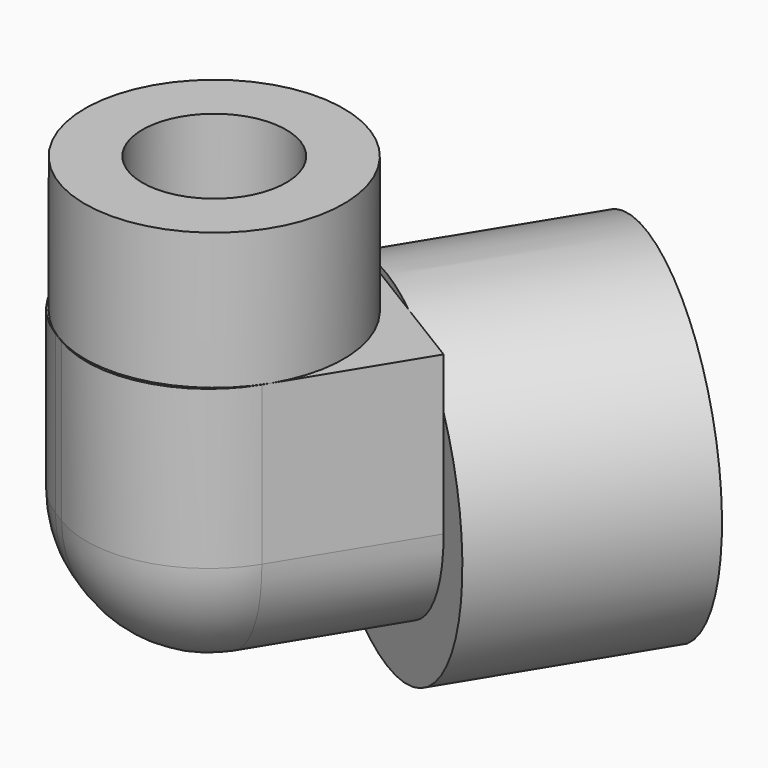
from build123d import *

# Parameters (mm, degrees)
CYLINDER021_R               = 5
CYLINDER021_DEPTH           = 25
CYLINDER022_R               = 5
CYLINDER022_DEPTH           = 15
CYLINDER020_R               = 9
CYLINDER020_DEPTH           = 9.5
BOX007_W                    = 19
BOX007_H                    = 18
BOX007_DEPTH                = 19.5
FILLET_R                    = 8.5
CYLINDER024_R               = 5
CYLINDER024_DEPTH           = 2.5
CYLINDER019_R               = 12
CYLINDER019_DEPTH           = 2.5
CYLINDER027_R               = 8
CYLINDER027_DEPTH           = 12.5
CYLINDER026_R               = 12
CYLINDER026_DEPTH           = 12.5
CYLINDER026_PLACEMENT_ANGLE = 1
FUSION025_PLACEMENT_ANGLE   = 90
FUSION042_ROLL_ANGLE        = 180
FUSION042_PLACEMENT_ANGLE   = 58.52


with BuildPart() as obj1_hole:
    # Cylinder021 → Cylinder021 (new body)
    with BuildSketch(Plane.XY):
        Circle(CYLINDER021_R)
    extrude(amount=CYLINDER021_DEPTH)


with BuildPart() as obj2:
    # Cylinder022 → Cylinder022 (new body)
    with BuildSketch(Plane(origin=(-5, 0, 21), x_dir=(0, 0, -1), z_dir=(1, 0, 0))):
        Circle(CYLINDER022_R)
    extrude(amount=CYLINDER022_DEPTH)

    # Fusion016: union obj1_hole
    add(obj1_hole.part)


with BuildPart() as obj1:
    # Cylinder020 → Cylinder020 (new body)
    with BuildSketch(Plane.XY):
        Circle(CYLINDER020_R)
    extrude(amount=CYLINDER020_DEPTH)


with BuildPart() as obj3:
    # Box007 → Box007 (new body)
    with BuildSketch(Plane(origin=(-9, -9, 9.5), x_dir=(1, 0, 0), z_dir=(0, 0, 1))):
        with Locations((9.5, 9)):
            Rectangle(BOX007_W, BOX007_H)
    extrude(amount=BOX007_DEPTH)

    # Fillet
    fillet_edges = [obj3.edges().sort_by_distance(p)[0] for p in [
        (-9, -9, 19.25),
        (-9, 0, 29),
        (-9, 9, 19.25),
        (0.5, -9, 29),
        (0.5, 9, 29),
    ]]
    fillet(fillet_edges, radius=FILLET_R)

    # Fusion018: union obj1
    add(obj1.part)

    # Cut013: cut obj2
    add(obj2.part, mode=Mode.SUBTRACT)


with BuildPart() as largeplughole:
    # Cylinder024 → Cylinder024 (new body)
    with BuildSketch(Plane.XY):
        Circle(CYLINDER024_R)
    extrude(amount=CYLINDER024_DEPTH)


with BuildPart() as largeplugbase001:
    # Cylinder019 → Cylinder019 (new body)
    with BuildSketch(Plane.XY):
        Circle(CYLINDER019_R)
    extrude(amount=CYLINDER019_DEPTH)

    # Cut008: cut LargePlugHole
    add(largeplughole.part, mode=Mode.SUBTRACT)


with BuildPart() as largeplugwallhole:
    # Cylinder027 → Cylinder027 (new body)
    with BuildSketch(Plane.XY.offset(2.5)):
        Circle(CYLINDER027_R)
    extrude(amount=CYLINDER027_DEPTH)


with BuildPart() as obj4:
    # Cylinder026 → Cylinder026 (new body)
    with BuildSketch(Plane.XY):
        Circle(CYLINDER026_R)
    extrude(amount=CYLINDER026_DEPTH)


with BuildPart() as obj4_1:
    # Cylinder026 placement: moved
    add(obj4.part.moved(Location((0, 0, 2.5))).rotate(Axis((0, 0, 2.5), (0, 0, 1)), CYLINDER026_PLACEMENT_ANGLE))

    # Cut007: cut LargePlugWallHole
    add(largeplugwallhole.part, mode=Mode.SUBTRACT)

    # Fusion025: union LargePlugBase001
    add(largeplugbase001.part)


with BuildPart() as obj4_2:
    # Fusion025 placement: moved
    add(obj4_1.part.moved(Location((10, 0, 21))).rotate(Axis((10, 0, 21), (0, 1, 0)), FUSION025_PLACEMENT_ANGLE))

    # Fusion042: union obj3
    add(obj3.part)


with BuildPart() as obj4_3:
    # Fusion042 roll: moved
    add(obj4_2.part.rotate(Axis((0, 0, 0), (1, 0, 0)), FUSION042_ROLL_ANGLE))


with BuildPart() as obj4_4:
    # Fusion042 placement: moved
    add(obj4_3.part.moved(Location((-39.5, -110, 63.5))).rotate(Axis((-39.5, -110, 63.5), (0, 0, 1)), FUSION042_PLACEMENT_ANGLE))


solid = obj4_4.part
